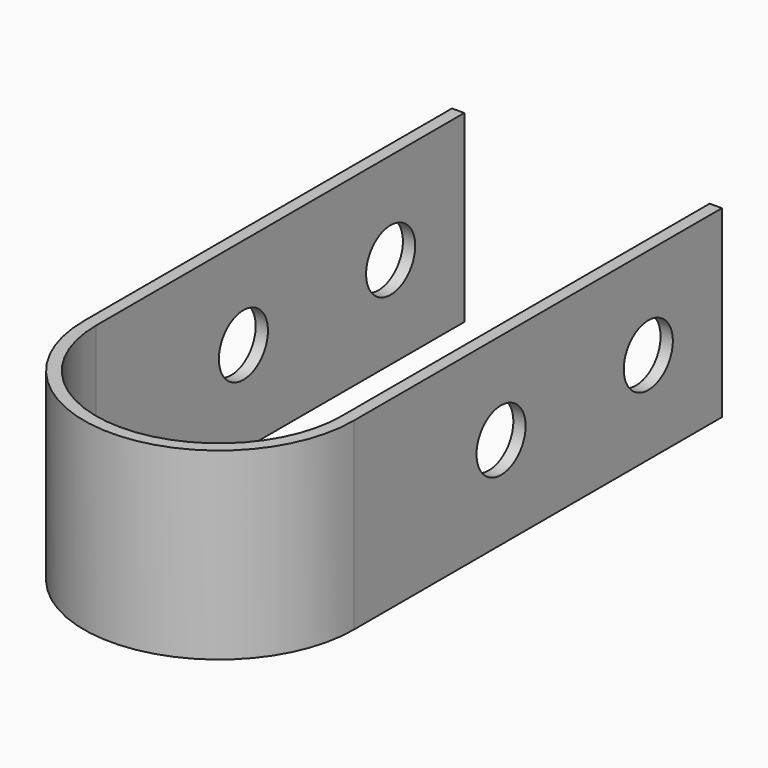
from build123d import *

# Parameters (mm, degrees)
F1_DEPTH = 30
F2_R     = 5
F3_DEPTH = 44


with BuildPart() as f1:
    # F0 (on Top) → F1 (new body)
    with BuildSketch(Plane.XY):
        with BuildLine():
            Line((-27.401637, -27.906079), (-27.401637, 47.093921))
            Line((-27.401637, 47.093921), (-29.401637, 47.093921))
            Line((-29.401637, 47.093921), (-29.401637, -27.906079))
            ThreePointArc((-29.401637, -27.906079), (-7.401637, -49.906079), (14.598363, -27.906079))
            Line((14.598363, -27.906079), (14.598363, 47.093921))
            Line((14.598363, 47.093921), (12.598363, 47.093921))
            Line((12.598363, 47.093921), (12.598363, -27.906079))
            ThreePointArc((12.598363, -27.906079), (-7.401637, -47.906079), (-27.401637, -27.906079))
        make_face()
    extrude(amount=F1_DEPTH)

    # F2 (on face) → F3 (cut, through all)
    with BuildSketch(Plane(origin=(-29.401637, 0, 0), x_dir=(0, -1, 0), z_dir=(-1, 0, 0))):
        with Locations((-32.093921, 15)):
            Circle(F2_R)
        with Locations((-2.093921, 15)):
            Circle(F2_R)
    extrude(amount=-F3_DEPTH, mode=Mode.SUBTRACT)


solid = f1.part
